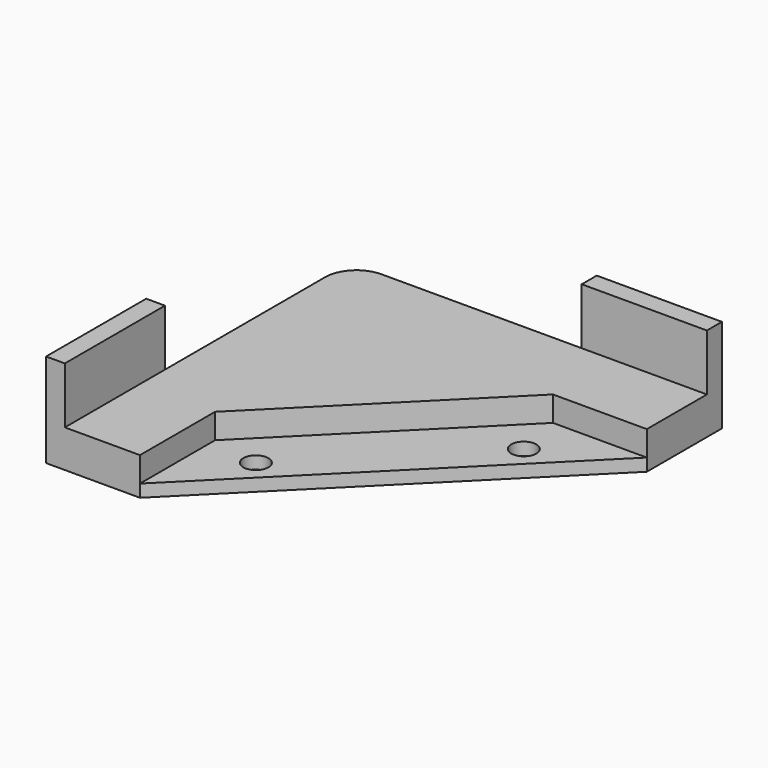
from build123d import *

# Parameters (mm, degrees)
SKETCH_R      = 2
PAD_DEPTH     = 6
SKETCH001_W   = 3
SKETCH001_H   = 20
SKETCH001_W_2 = 20
SKETCH001_H_2 = 3
PAD001_DEPTH  = 15
POCKET_DEPTH  = 4


with BuildPart() as part:
    # Sketch → Pad (new body)
    with BuildSketch(Plane.XY):
        with BuildLine():
            Line((-7, 12), (25, 12))
            Line((25, 12), (25, 15))
            Line((25, 15), (45, 15))
            Line((45, 15), (45, 0))
            Line((0, -45), (45, 0))
            Line((-15, -45), (0, -45))
            Line((-15, -25), (-15, -45))
            Line((-12, -25), (-15, -25))
            Line((-12, 7), (-12, -25))
            ThreePointArc((-7, 12), (-10.535534, 10.535534), (-12, 7))
        make_face()
        with Locations((31.564971, -7.778175)):
            Circle(SKETCH_R, mode=Mode.SUBTRACT)
        with Locations((7.778175, -31.564971)):
            Circle(SKETCH_R, mode=Mode.SUBTRACT)
    extrude(amount=PAD_DEPTH)

    # Sketch001 → Pad001 (join)
    with BuildSketch(Plane.XY):
        with Locations((-13.5, -35)):
            Rectangle(SKETCH001_W, SKETCH001_H)
        with Locations((35, 13.5)):
            Rectangle(SKETCH001_W_2, SKETCH001_H_2)
    extrude(amount=PAD001_DEPTH)

    # Sketch002 (on DatumPlane) → Pocket (cut)
    with BuildSketch(Plane.XY.offset(6)):
        Polygon((45, 0), (30, 0), (0, -30), (0, -45), align=None)
    extrude(amount=-POCKET_DEPTH, mode=Mode.SUBTRACT)


solid = part.part
